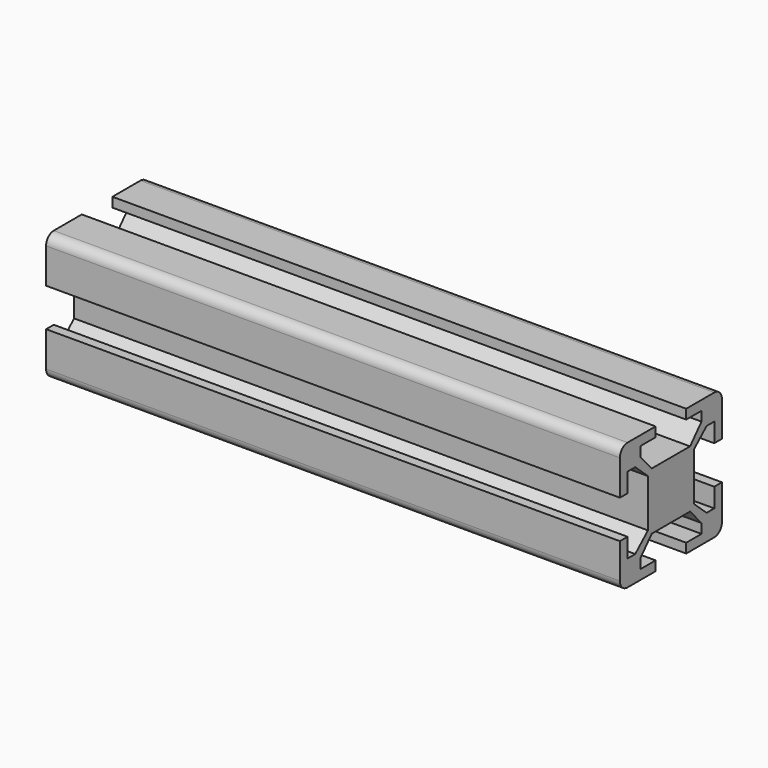
from build123d import *

# Parameters (mm, degrees)
F1_DEPTH = 90
F2_R     = 1
F3_DEPTH = 1


with BuildPart() as f1:
    # F0 (on Right) → F1 (new body)
    with BuildSketch(Plane.YZ):
        with BuildLine():
            ThreePointArc((10, 8.5), (9.56066, 9.56066), (8.5, 10))
            Line((8.5, 10), (3, 10))
            Line((3, 10), (3, 8.5))
            Line((3, 8.5), (6, 8.5))
            Line((6, 8.5), (6, 7))
            Line((6, 7), (3.75, 4.5))
            Line((3.75, 4.5), (0, 4.5))
            Line((0, 4.5), (-3.75, 4.5))
            Line((-3.75, 4.5), (-6, 7))
            Line((-6, 7), (-6, 8.5))
            Line((-6, 8.5), (-3, 8.5))
            Line((-3, 8.5), (-3, 10))
            Line((-3, 10), (-8.5, 10))
            ThreePointArc((-8.5, 10), (-9.56066, 9.56066), (-10, 8.5))
            Line((-10, 8.5), (-10, 3))
            Line((-10, 3), (-8.5, 3))
            Line((-8.5, 3), (-8.5, 6))
            Line((-8.5, 6), (-7, 6))
            Line((-7, 6), (-4.5, 3.75))
            Line((-4.5, 3.75), (-4.5, 0))
            Line((-4.5, 0), (-4.5, -3.75))
            Line((-4.5, -3.75), (-7, -6))
            Line((-7, -6), (-8.5, -6))
            Line((-8.5, -6), (-8.5, -3))
            Line((-8.5, -3), (-10, -3))
            Line((-10, -3), (-10, -8.5))
            ThreePointArc((-10, -8.5), (-9.56066, -9.56066), (-8.5, -10))
            Line((-8.5, -10), (-3, -10))
            Line((-3, -10), (-3, -8.5))
            Line((-3, -8.5), (-6, -8.5))
            Line((-6, -8.5), (-6, -7))
            Line((-6, -7), (-3.75, -4.5))
            Line((-3.75, -4.5), (0, -4.5))
            Line((0, -4.5), (3.75, -4.5))
            Line((3.75, -4.5), (6, -7))
            Line((6, -7), (6, -8.5))
            Line((6, -8.5), (3, -8.5))
            Line((3, -8.5), (3, -10))
            Line((3, -10), (8.5, -10))
            ThreePointArc((8.5, -10), (9.56066, -9.56066), (10, -8.5))
            Line((10, -8.5), (10, -3))
            Line((10, -3), (8.5, -3))
            Line((8.5, -3), (8.5, -6))
            Line((8.5, -6), (7, -6))
            Line((7, -6), (4.5, -3.75))
            Line((4.5, -3.75), (4.5, 0))
            Line((4.5, 0), (4.5, 3.75))
            Line((4.5, 3.75), (7, 6))
            Line((7, 6), (8.5, 6))
            Line((8.5, 6), (8.5, 3))
            Line((8.5, 3), (10, 3))
            Line((10, 3), (10, 8.5))
        make_face()
    extrude(amount=F1_DEPTH)

    # F2 (on face) → F3 (cut)
    with BuildSketch(Plane.XY.offset(4.5)):
        with Locations((65, 0)):
            Circle(F2_R)
        with Locations((25, 0)):
            Circle(F2_R)
    extrude(amount=-F3_DEPTH, mode=Mode.SUBTRACT)


solid = f1.part
